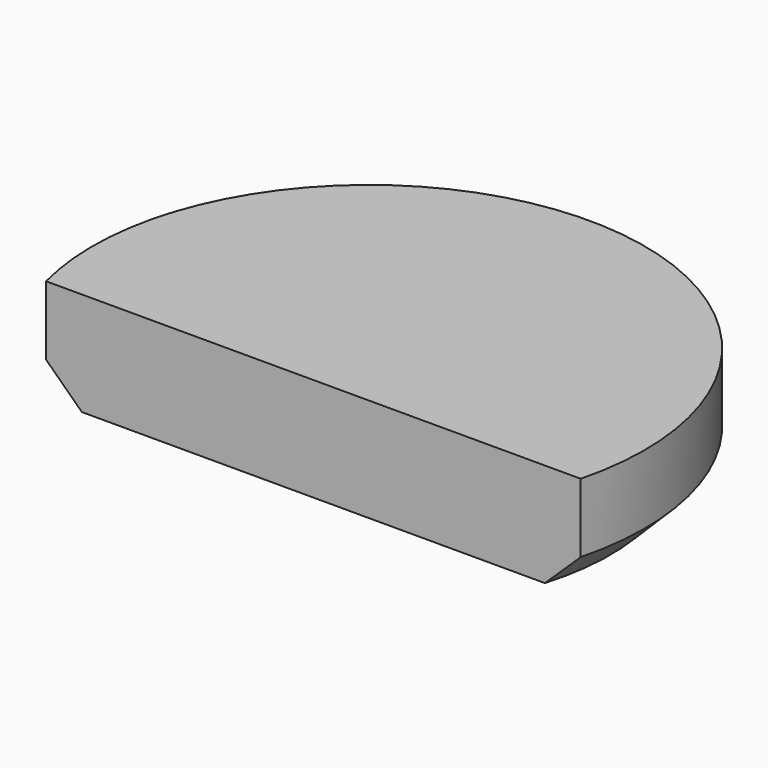
from build123d import *

# Parameters (mm, degrees)
BOX991_W           = 148
BOX991_H           = 40
BOX991_DEPTH       = 40
CYLINDER2098_R     = 16
CYLINDER2098_DEPTH = 6
CHAMFER080_SIZE    = 2


with BuildPart() as krychle991:
    # Box991 → Box991 (new body)
    with BuildSketch(Plane(origin=(-74, 42, 16), x_dir=(1, 0, 0), z_dir=(0, 0, 1))):
        with Locations((74, 20)):
            Rectangle(BOX991_W, BOX991_H)
    extrude(amount=BOX991_DEPTH)


with BuildPart() as chamfer080:
    # Cylinder2098 → Cylinder2098 (new body)
    with BuildSketch(Plane(origin=(0, 86, 16), x_dir=(1, 0, 0), z_dir=(0, 0, 1))):
        Circle(CYLINDER2098_R)
    extrude(amount=CYLINDER2098_DEPTH)

    # Cut691: cut Krychle991
    add(krychle991.part, mode=Mode.SUBTRACT)

    # Chamfer080
    chamfer080_edges = [chamfer080.edges().sort_by_distance(p)[0] for p in [
        (-2.016069, 101.872475, 16),
    ]]
    chamfer(chamfer080_edges, length=CHAMFER080_SIZE)


solid = chamfer080.part
